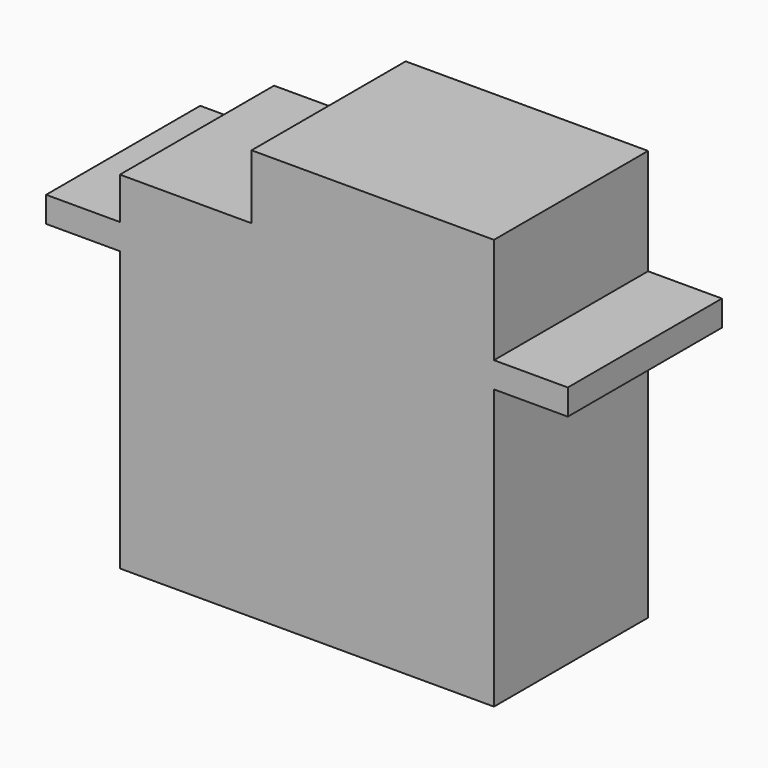
from build123d import *

# Parameters (mm, degrees)
F0_W     = 23.3
F0_H     = 17.4
F0_W_2   = 15.1
F0_H_2   = 4
F0_H_3   = 1.6
F0_W_3   = 4.6
F1_DEPTH = 12


with BuildPart() as f1:
    # F0 (on Front) → F1 (new body)
    with BuildSketch(Plane.XZ):
        with Locations((11.65, -8.7)):
            Rectangle(F0_W, F0_H)
        with Locations((15.75, 6.2)):
            Rectangle(F0_W_2, F0_H_2)
        Polygon((8.2, 4.2), (0, 4.2), (0, 1.6), (23.3, 1.6), (23.3, 4.2), align=None)
        with Locations((11.65, 0.8)):
            Rectangle(F0_W, F0_H_3)
        with Locations((25.6, 0.8)):
            Rectangle(F0_W_3, F0_H_3)
        with Locations((-2.3, 0.8)):
            Rectangle(F0_W_3, F0_H_3)
    extrude(amount=F1_DEPTH)


solid = f1.part
